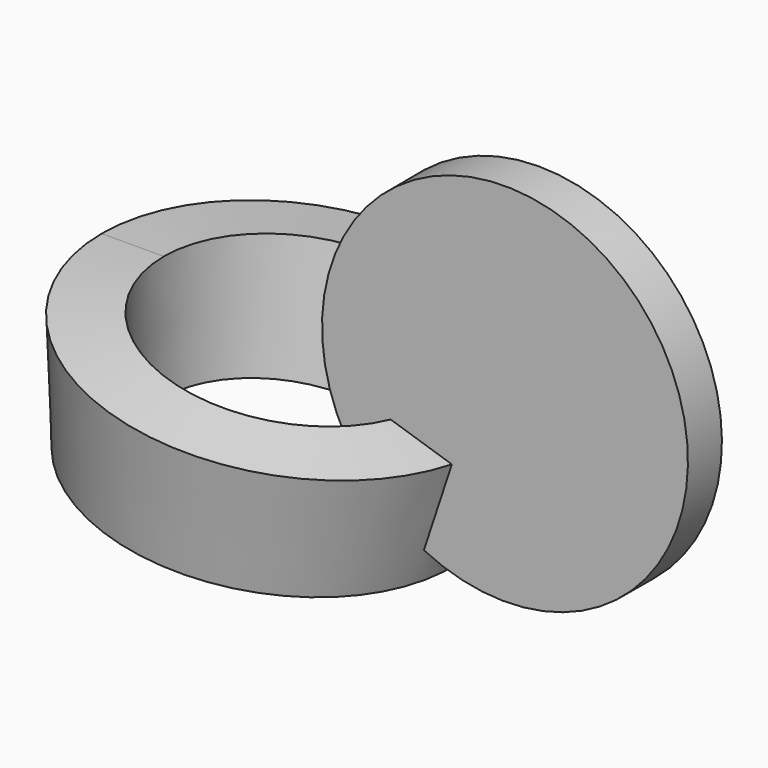
from build123d import *

# Parameters (mm, degrees)
F1_W     = 37.107438
F1_H     = 74.310571
F3_R     = 109.369817
F4_DEPTH = 25.4


with BuildPart() as f2:
    # F1 (on Front) → F2 (revolve)
    with BuildSketch(Plane.XZ):
        with Locations((-203.404874, 43.771326)):
            Rectangle(F1_W, F1_H)
    revolve(axis=Axis((-114.124175, 0, 9.919561), (-0.156883, 0, -0.987617)))

    # F3 (on Front) → F4 (join)
    with BuildSketch(Plane.XZ):
        with Locations((39.423123, 91.923617)):
            Circle(F3_R)
    extrude(amount=F4_DEPTH)


solid = f2.part
